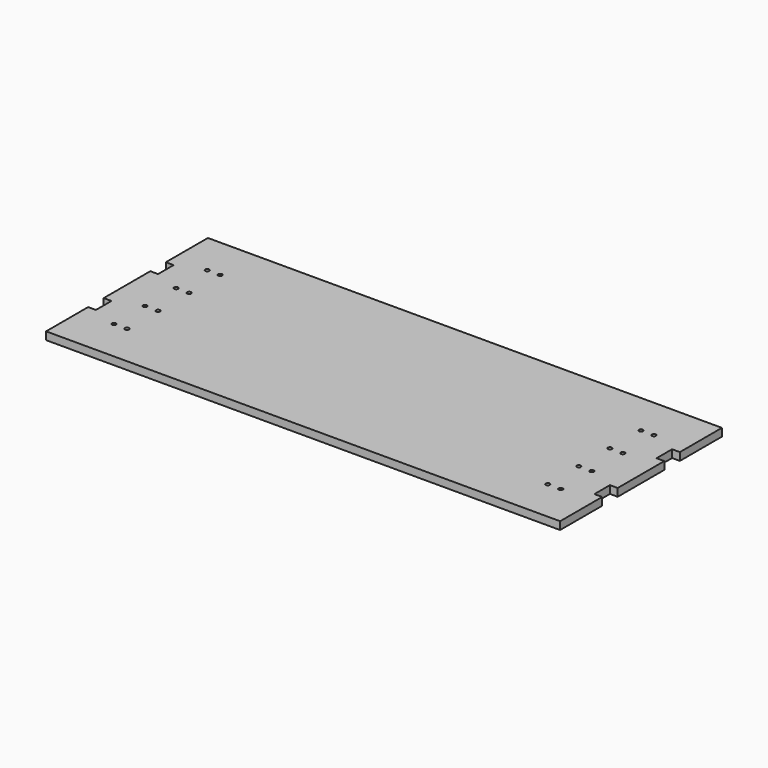
from build123d import *

# Parameters (mm, degrees)
F0_R     = 1.55
F1_DEPTH = 6


with BuildPart() as f1:
    # F0 (on Top) → F1 (new body)
    with BuildSketch(Plane.XY):
        Polygon((-397, 0), (0, 0), (0, 40.6), (-6, 40.6), (-6, 55.6), (0, 55.6), (0, 100.6), (-6, 100.6), (-6, 115.6), (0, 115.6), (0, 156.2), (-397, 156.2), (-397, 115.6), (-391, 115.6), (-391, 100.6), (-397, 100.6), (-397, 55.6), (-391, 55.6), (-391, 40.6), (-397, 40.6), align=None)
        with Locations((-371, 33.1)):
            Circle(F0_R, mode=Mode.SUBTRACT)
        with Locations((-361, 33.1)):
            Circle(F0_R, mode=Mode.SUBTRACT)
        with Locations((-371, 63.1)):
            Circle(F0_R, mode=Mode.SUBTRACT)
        with Locations((-361, 63.1)):
            Circle(F0_R, mode=Mode.SUBTRACT)
        with Locations((-36, 33.1)):
            Circle(F0_R, mode=Mode.SUBTRACT)
        with Locations((-26, 33.1)):
            Circle(F0_R, mode=Mode.SUBTRACT)
        with Locations((-36, 63.1)):
            Circle(F0_R, mode=Mode.SUBTRACT)
        with Locations((-26, 63.1)):
            Circle(F0_R, mode=Mode.SUBTRACT)
        with Locations((-371, 93.1)):
            Circle(F0_R, mode=Mode.SUBTRACT)
        with Locations((-361, 93.1)):
            Circle(F0_R, mode=Mode.SUBTRACT)
        with Locations((-371, 123.1)):
            Circle(F0_R, mode=Mode.SUBTRACT)
        with Locations((-361, 123.1)):
            Circle(F0_R, mode=Mode.SUBTRACT)
        with Locations((-36, 93.1)):
            Circle(F0_R, mode=Mode.SUBTRACT)
        with Locations((-26, 93.1)):
            Circle(F0_R, mode=Mode.SUBTRACT)
        with Locations((-36, 123.1)):
            Circle(F0_R, mode=Mode.SUBTRACT)
        with Locations((-26, 123.1)):
            Circle(F0_R, mode=Mode.SUBTRACT)
    extrude(amount=F1_DEPTH)


solid = f1.part
